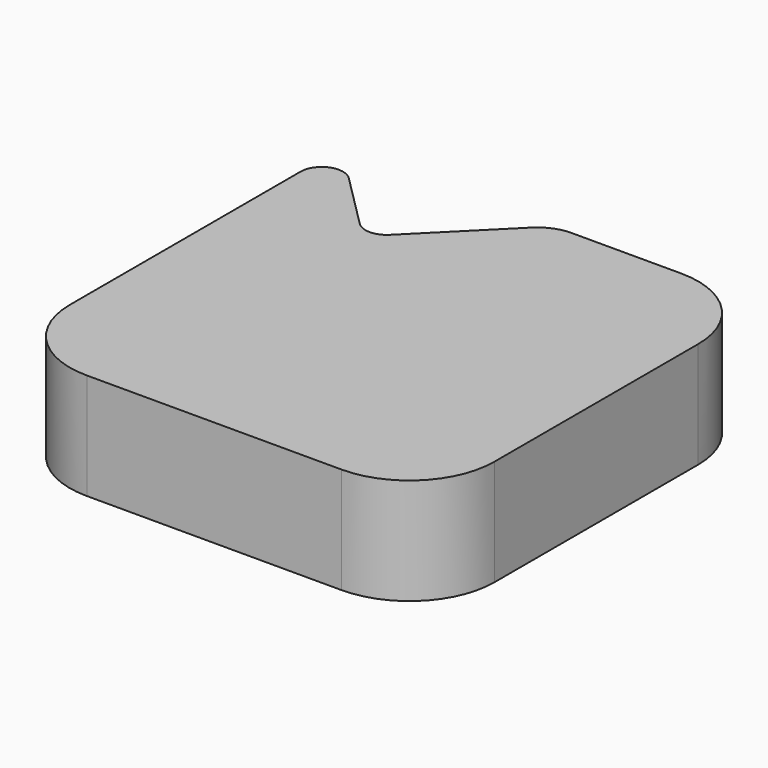
from build123d import *

# Parameters (mm, degrees)
F1_DEPTH = 25


with BuildPart() as f1:
    # F0 (on Top) → F1 (new body)
    with BuildSketch(Plane.XY):
        with BuildLine():
            ThreePointArc((50, 30), (44.142136, 44.142136), (30, 50))
            Line((30, 50), (4.142136, 50))
            ThreePointArc((4.142136, 50), (0.315301, 49.238795), (-2.928932, 47.071068))
            Line((-2.928932, 47.071068), (-21.464466, 28.535534))
            ThreePointArc((-21.464466, 28.535534), (-25, 27.071068), (-28.535534, 28.535534))
            Line((-28.535534, 28.535534), (-41.464466, 41.464466))
            ThreePointArc((-41.464466, 41.464466), (-46.913417, 42.54833), (-50, 37.928932))
            Line((-50, 37.928932), (-50, -30))
            ThreePointArc((-50, -30), (-44.142136, -44.142136), (-30, -50))
            Line((-30, -50), (30, -50))
            ThreePointArc((30, -50), (44.142136, -44.142136), (50, -30))
            Line((50, -30), (50, 30))
        make_face()
    extrude(amount=F1_DEPTH)


solid = f1.part
